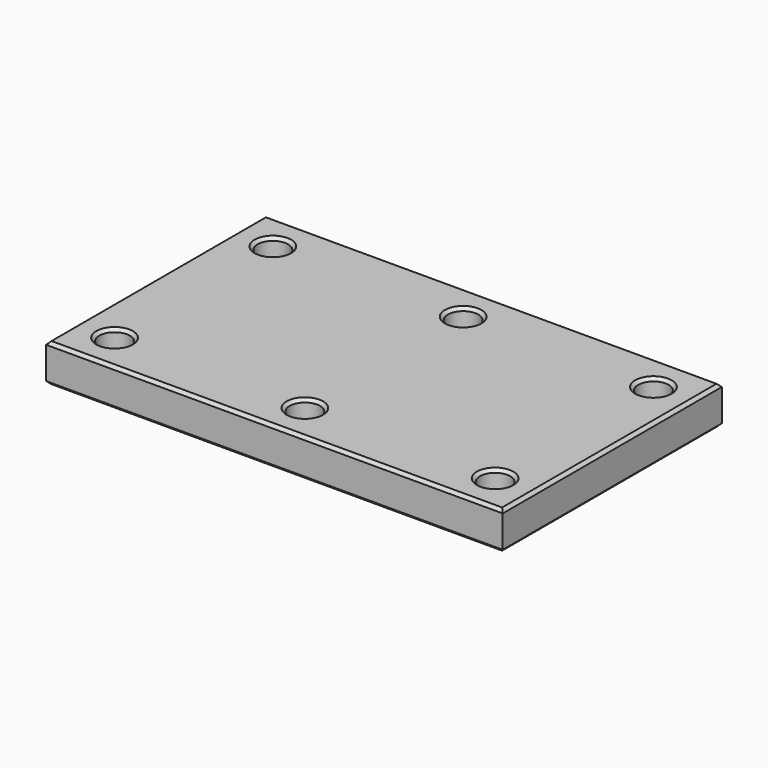
from build123d import *

# Parameters (mm, degrees)
F0_W     = 300
F0_H     = 180
F1_DEPTH = 25
F2_R     = 10
F3_DEPTH = 25
F4_SIZE2 = 2
F4_SIZE  = 2


with BuildPart() as f1:
    # F0 (on Top) → F1 (new body)
    with BuildSketch(Plane.XY):
        Rectangle(F0_W, F0_H)
    extrude(amount=F1_DEPTH)

    # F2 (on face) → F3 (cut, through all)
    with BuildSketch(Plane(origin=(0, 0, 0), x_dir=(1, 0, 0), z_dir=(0, 0, -1))):
        with Locations((-125, 65)):
            Circle(F2_R)
        with Locations((0, 65)):
            Circle(F2_R)
        with Locations((125, 65)):
            Circle(F2_R)
        with Locations((125, -65)):
            Circle(F2_R)
        with Locations((0, -65)):
            Circle(F2_R)
        with Locations((-125, -65)):
            Circle(F2_R)
    extrude(amount=-F3_DEPTH, mode=Mode.SUBTRACT)

    # F4
    f4_edges = [f1.edges().sort_by_distance(p)[0] for p in [
        (-135, -65, 0),
        (-10, -65, 0),
        (115, -65, 0),
        (115, 65, 0),
        (-10, 65, 0),
        (-135, 65, 0),
        (-150, 0, 0),
        (0, 90, 0),
        (-150, 0, 25),
        (0, 90, 25),
        (0, -90, 0),
        (150, 0, 0),
        (150, 0, 25),
        (0, -90, 25),
        (-10, 65, 25),
        (-135, 65, 25),
        (-135, -65, 25),
        (-10, -65, 25),
        (115, 65, 25),
        (115, -65, 25),
    ]]
    chamfer(f4_edges, length=F4_SIZE, length2=F4_SIZE2)


solid = f1.part
